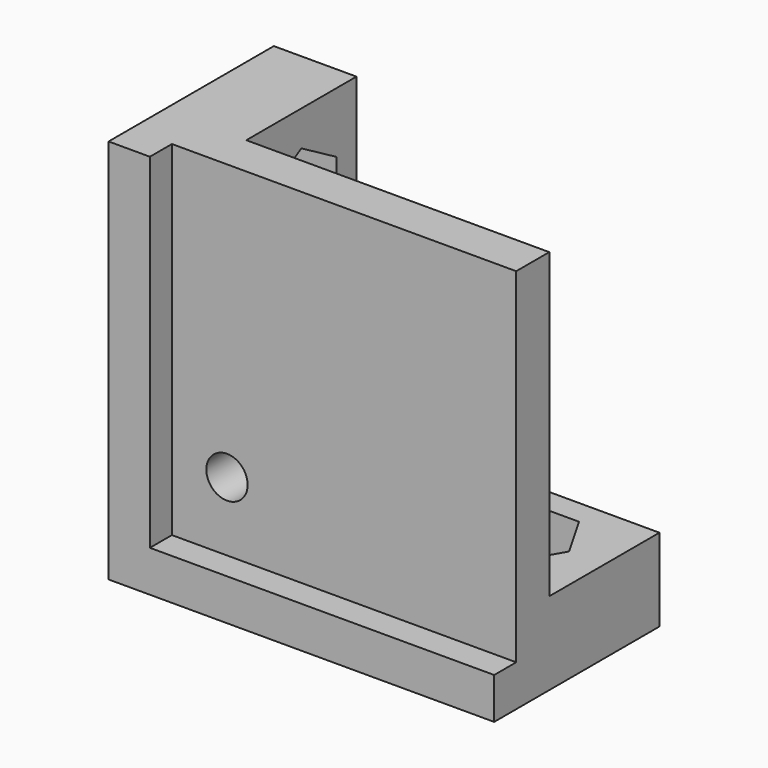
from build123d import *

# Parameters (mm, degrees)
F0_W      = 25
F0_H      = 25
F0_R      = 1.5
F1_DEPTH  = 3
F3_DEPTH  = 5
F4_W      = 6
F4_H      = 12.5
F4_W_2    = 12.5
F4_H_2    = 6
F5_DEPTH  = 10
F7_DEPTH  = 4
F8_R      = 1.7
F9_DEPTH  = 25
F11_DEPTH = 4
F12_R     = 1.7
F13_DEPTH = 25


with BuildPart() as f1:
    # F0 (on Front) → F1 (new body)
    with BuildSketch(Plane.XZ):
        Rectangle(F0_W, F0_H)
        with Locations((-8.5, -7.5)):
            Circle(F0_R, mode=Mode.SUBTRACT)
    extrude(amount=F1_DEPTH)

    # F2 (on Front) → F3 (join)
    with BuildSketch(Plane.XZ):
        Polygon((-12.5, -12.5), (-12.5, 12.5), (-15.5, 12.5), (-15.5, -15.5), (12.5, -15.5), (12.5, -12.5), align=None)
    extrude(amount=F3_DEPTH)

    # F4 (on face) → F5 (join)
    with BuildSketch(Plane(origin=(0, 0, 0), x_dir=(-1, 0, 0), z_dir=(0, 1, 0))):
        with Locations((12.5, 6.25)):
            Rectangle(F4_W, F4_H)
        with Locations((-6.25, -12.5)):
            Rectangle(F4_W_2, F4_H_2)
    extrude(amount=F5_DEPTH)

    # F6 (on face) → F7 (cut)
    with BuildSketch(Plane.XY.offset(-9.5)):
        Polygon((8.097521, 1.8), (9.945042, 5), (8.097521, 8.2), (4.402479, 8.2), (2.554958, 5), (4.402479, 1.8), align=None)
    extrude(amount=-F7_DEPTH, mode=Mode.SUBTRACT)

    # F8 (on face) → F9 (cut)
    with BuildSketch(Plane.XY.offset(-9.5)):
        with Locations((6.25, 5)):
            Circle(F8_R)
    extrude(amount=-F9_DEPTH, mode=Mode.SUBTRACT)

    # F10 (on face) → F11 (cut)
    with BuildSketch(Plane.YZ.offset(-9.5)):
        Polygon((8.2, 4.402479), (8.2, 8.097521), (5, 9.945042), (1.8, 8.097521), (1.8, 4.402479), (5, 2.554958), align=None)
    extrude(amount=-F11_DEPTH, mode=Mode.SUBTRACT)

    # F12 (on face) → F13 (cut)
    with BuildSketch(Plane.YZ.offset(-9.5)):
        with Locations((5, 6.25)):
            Circle(F12_R)
    extrude(amount=-F13_DEPTH, mode=Mode.SUBTRACT)


solid = f1.part
